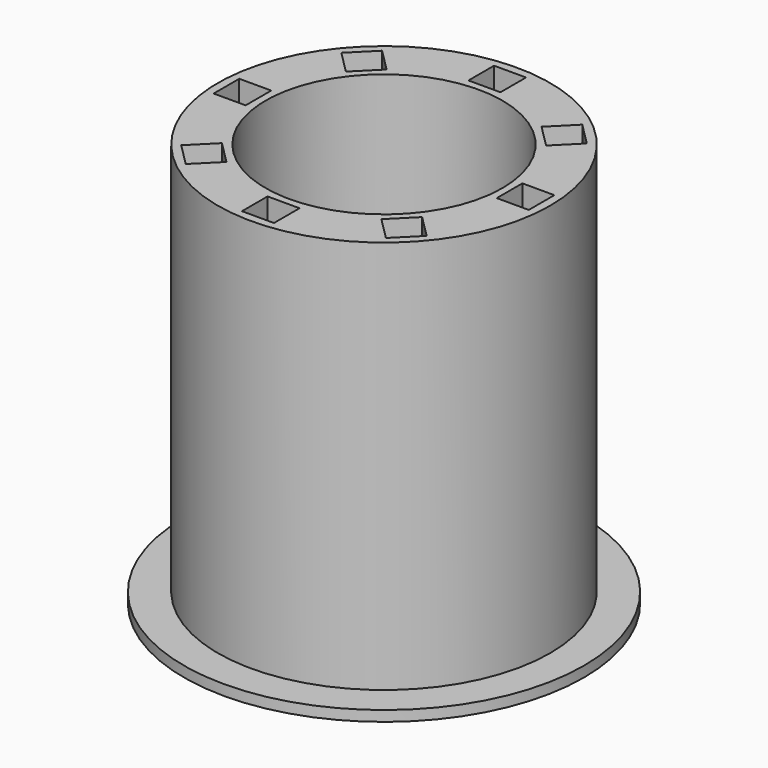
from build123d import *

# Parameters (mm, degrees)
F0_R     = 27
F0_R_2   = 19.25
F1_DEPTH = 64
F2_R     = 32.5
F2_R_2   = 19.25
F3_DEPTH = 1.7
F4_W     = 5.2
F4_H     = 5.2
F5_DEPTH = 65.701
F6_R     = 24
F6_R_2   = 22.25
F7_DEPTH = 2


with BuildPart() as f1:
    # F0 (on Top) → F1 (new body)
    with BuildSketch(Plane.XY):
        Circle(F0_R)
        Circle(F0_R_2, mode=Mode.SUBTRACT)
    extrude(amount=F1_DEPTH)

    # F2 (on face) → F3 (join)
    with BuildSketch(Plane(origin=(0, 0, 0), x_dir=(1, 0, 0), z_dir=(0, 0, -1))):
        Circle(F2_R)
        Circle(F2_R_2, mode=Mode.SUBTRACT)
    extrude(amount=F3_DEPTH)

    # F4 (on face) → F5 (cut, through all)
    with BuildSketch(Plane.XY.offset(64)):
        with Locations((0, -23)):
            Rectangle(F4_W, F4_H)
        Polygon((16.263456, -12.586501), (12.586501, -16.263456), (16.263456, -19.940411), (19.940411, -16.263456), align=None)
        with Locations((23, 0)):
            Rectangle(F4_W, F4_H)
        Polygon((12.586501, 16.263456), (16.263456, 12.586501), (19.940411, 16.263456), (16.263456, 19.940411), align=None)
        with Locations((0, 23)):
            Rectangle(F4_W, F4_H)
        Polygon((-16.263456, 12.586501), (-12.586501, 16.263456), (-16.263456, 19.940411), (-19.940411, 16.263456), align=None)
        with Locations((-23, 0)):
            Rectangle(F4_W, F4_H)
        Polygon((-12.586501, -16.263456), (-16.263456, -12.586501), (-19.940411, -16.263456), (-16.263456, -19.940411), align=None)
    extrude(amount=-F5_DEPTH, mode=Mode.SUBTRACT)

    # F6 (on face) → F7 (join)
    with BuildSketch(Plane(origin=(0, 0, -1.7), x_dir=(1, 0, 0), z_dir=(0, 0, -1))):
        Circle(F6_R)
        Circle(F6_R_2, mode=Mode.SUBTRACT)
    extrude(amount=-F7_DEPTH)


solid = f1.part
